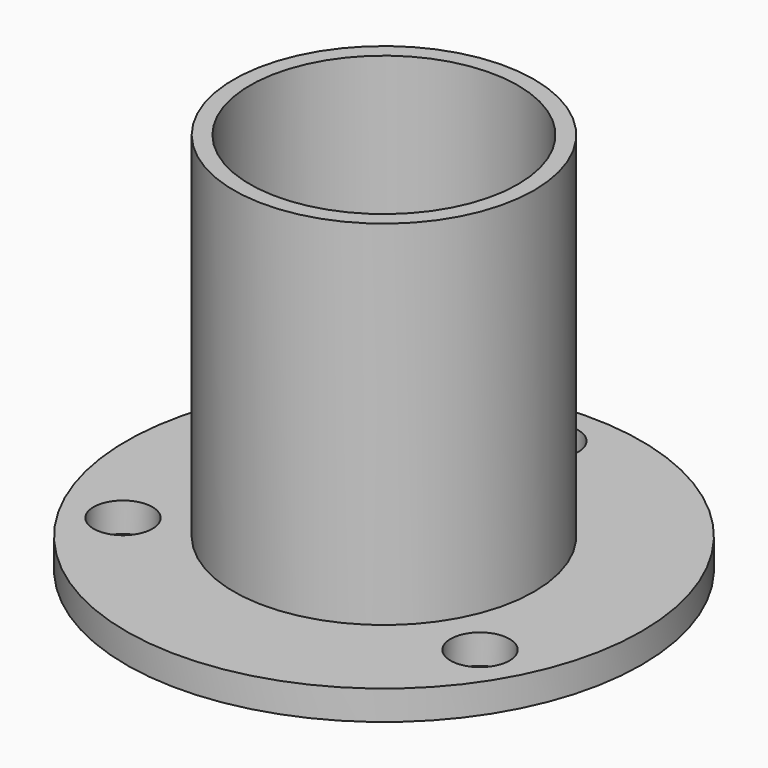
from build123d import *

# Parameters (mm, degrees)
F0_R     = 12.954
F0_R_2   = 11.557
F1_DEPTH = 33.02
F0_R_3   = 22.225
F0_R_4   = 2.54
F2_DEPTH = 2.54


with BuildPart() as f1:
    # F0 (on Top) → F1 (new body)
    with BuildSketch(Plane.XY):
        Circle(F0_R)
        Circle(F0_R_2, mode=Mode.SUBTRACT)
    extrude(amount=F1_DEPTH)

    # F0 (on Top) → F2 (join)
    with BuildSketch(Plane.XY):
        Circle(F0_R_3)
        with Locations((-15.397932, -8.89)):
            Circle(F0_R_4, mode=Mode.SUBTRACT)
        with Locations((15.397932, -8.89)):
            Circle(F0_R_4, mode=Mode.SUBTRACT)
        Circle(F0_R, mode=Mode.SUBTRACT)
        with Locations((0, 17.78)):
            Circle(F0_R_4, mode=Mode.SUBTRACT)
    extrude(amount=F2_DEPTH)


solid = f1.part
